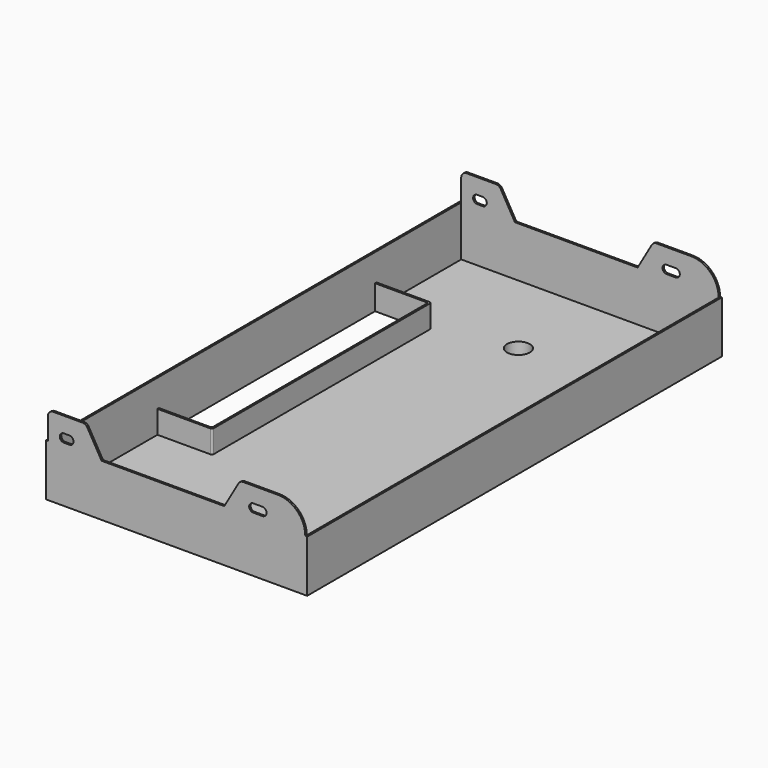
from build123d import *

# Parameters (mm, degrees)
F1_DEPTH  = 568
F3_DEPTH  = 2
F5_DEPTH  = 2
F6_R      = 12.5
F7_DEPTH  = 25
F8_R      = 13.5
F8_R_2    = 12.5
F9_DEPTH  = 13
F11_DEPTH = 25
F13_DEPTH = 25


with BuildPart() as f1:
    # F0 (on Front) → F1 (new body)
    with BuildSketch(Plane.XZ):
        Polygon((0, -55), (0, 0), (-2, 0), (-2, -57), (284, -57), (284, 0), (282, 0), (282, -55), align=None)
    extrude(amount=F1_DEPTH)

    # F2 (on Front) → F3 (join)
    with BuildSketch(Plane.XZ):
        with BuildLine():
            Line((0, 24), (0, 0))
            Line((0, 0), (0, -55))
            Line((0, -55), (282, -55))
            Line((282, -55), (282, 0))
            ThreePointArc((282, 0), (273.2132034356, 21.2132034356), (252, 30))
            Line((252, 30), (214, 30))
            ThreePointArc((214, 30), (211, 29.1961524227), (208.8038475773, 27))
            Line((208.8038475773, 27), (193.2153903092, 0))
            Line((193.2153903092, 0), (58.7846096908, 0))
            Line((58.7846096908, 0), (43.1961524227, 27))
            ThreePointArc((43.1961524227, 27), (41, 29.1961524227), (38, 30))
            Line((38, 30), (6, 30))
            ThreePointArc((6, 30), (1.7573593129, 28.2426406871), (0, 24))
        make_face()
        with BuildLine():
            ThreePointArc((17.5, 4), (13, 8.5), (17.5, 13))
            Line((17.5, 13), (23.5, 13))
            ThreePointArc((23.5, 13), (28, 8.5), (23.5, 4))
            Line((23.5, 4), (17.5, 4))
        make_face(mode=Mode.SUBTRACT)
        with BuildLine():
            ThreePointArc((225, 4), (220.5, 8.5), (225, 13))
            Line((225, 13), (235, 13))
            ThreePointArc((235, 13), (239.5, 8.5), (235, 4))
            Line((235, 4), (225, 4))
        make_face(mode=Mode.SUBTRACT)
    extrude(amount=F3_DEPTH)

    # F4 (on face) → F5 (join)
    with BuildSketch(Plane.XZ.offset(568)):
        with BuildLine():
            Line((0, 0), (0, -55))
            Line((0, -55), (282, -55))
            Line((282, -55), (282, 0))
            ThreePointArc((282, 0), (273.2132034356, 21.2132034356), (252, 30))
            Line((252, 30), (214, 30))
            ThreePointArc((214, 30), (211, 29.1961524227), (208.8038475773, 27))
            Line((208.8038475773, 27), (193.2153903092, 0))
            Line((193.2153903092, 0), (58.7846096908, 0))
            Line((58.7846096908, 0), (43.1961524227, 27))
            ThreePointArc((43.1961524227, 27), (41, 29.1961524227), (38, 30))
            Line((38, 30), (6, 30))
            ThreePointArc((6, 30), (1.7573593129, 28.2426406871), (0, 24))
            Line((0, 24), (0, 0))
        make_face()
        with BuildLine():
            ThreePointArc((17.5, 4), (13, 8.5), (17.5, 13))
            Line((17.5, 13), (23.5, 13))
            ThreePointArc((23.5, 13), (28, 8.5), (23.5, 4))
            Line((23.5, 4), (17.5, 4))
        make_face(mode=Mode.SUBTRACT)
        with BuildLine():
            ThreePointArc((225, 4), (220.5, 8.5), (225, 13))
            Line((225, 13), (235, 13))
            ThreePointArc((235, 13), (239.5, 8.5), (235, 4))
            Line((235, 4), (225, 4))
        make_face(mode=Mode.SUBTRACT)
    extrude(amount=-F5_DEPTH)

    # F6 (on face) → F7 (cut)
    with BuildSketch(Plane.XY.offset(-55)):
        with Locations((141, -100)):
            Circle(F6_R)
    extrude(amount=-F7_DEPTH, mode=Mode.SUBTRACT)

    # F8 (on face) → F9 (join)
    with BuildSketch(Plane(origin=(0, 0, -57), x_dir=(1, 0, 0), z_dir=(0, 0, -1))):
        with Locations((141, 100)):
            Circle(F8_R)
        with Locations((141, 100)):
            Circle(F8_R_2, mode=Mode.SUBTRACT)
    extrude(amount=F9_DEPTH)

    # F10 (on face) → F11 (join)
    with BuildSketch(Plane.XY.offset(-55)):
        with BuildLine():
            ThreePointArc((60, -120), (59.4142135624, -118.5857864376), (58, -118))
            Line((58, -118), (0, -118))
            Line((0, -118), (0, -120))
            Line((0, -120), (56, -120))
            ThreePointArc((56, -120), (57.4142135624, -120.5857864376), (58, -122))
            Line((58, -122), (58, -414))
            ThreePointArc((58, -414), (57.4142135624, -415.4142135624), (56, -416))
            Line((56, -416), (0, -416))
            Line((0, -416), (0, -418))
            Line((0, -418), (58, -418))
            ThreePointArc((58, -418), (59.4142135624, -417.4142135624), (60, -416))
            Line((60, -416), (60, -120))
        make_face()
    extrude(amount=F11_DEPTH)

    # F12 (on face) → F13 (cut)
    with BuildSketch(Plane.XY.offset(-55)):
        with BuildLine():
            Line((58, -414), (58, -122))
            ThreePointArc((58, -122), (57.4142135624, -120.5857864376), (56, -120))
            Line((56, -120), (0, -120))
            Line((0, -120), (0, -416))
            Line((0, -416), (56, -416))
            ThreePointArc((56, -416), (57.4142135624, -415.4142135624), (58, -414))
        make_face()
    extrude(amount=-F13_DEPTH, mode=Mode.SUBTRACT)


solid = f1.part
